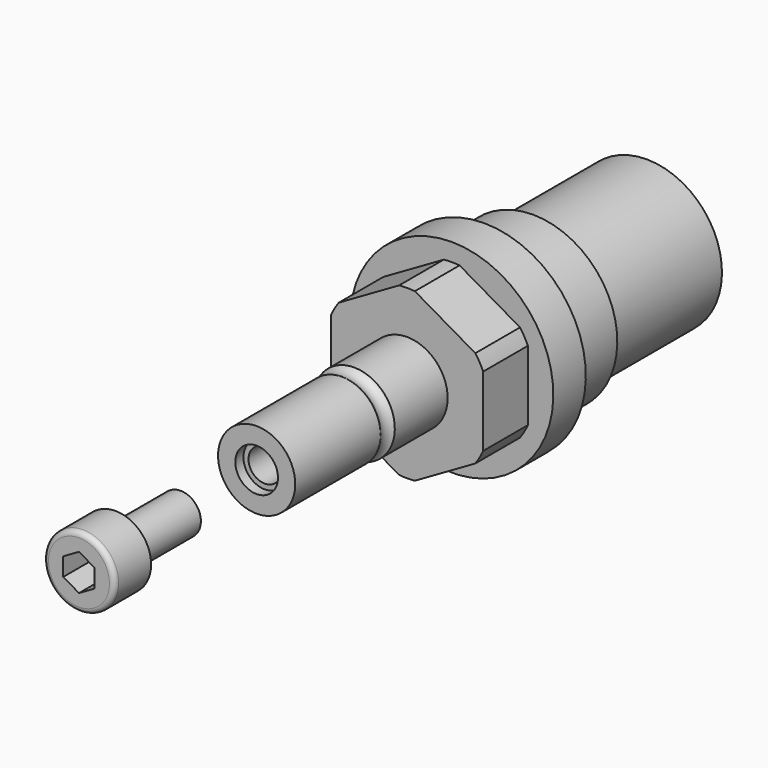
from build123d import *

# Parameters (mm, degrees)
F2_R     = 10
F3_DEPTH = 5.5
F7_DEPTH = 3.2


with BuildPart() as f1:
    # F0 (on Right) → F1 (revolve)
    with BuildSketch(Plane.YZ):
        with BuildLine():
            Line((-20, 0), (20, 0))
            Line((20, 0), (20, 7.4))
            Line((20, 7.4), (6, 7.4))
            Line((6, 7.4), (6, 8.3))
            Line((6, 8.3), (0, 8.3))
            Line((0, 8.3), (0, 10))
            Line((0, 10), (-4, 10))
            Line((-4, 10), (-4, 8.25))
            Line((-4, 8.25), (-9.5, 8.25))
            Line((-9.5, 8.25), (-9.5, 4))
            Line((-9.5, 4), (-16, 4))
            ThreePointArc((-16, 4), (-16.70425, 3.556871), (-17.5, 3.8))
            Line((-17.5, 3.8), (-28, 3.8))
            Line((-28, 3.8), (-28, 2.1))
            Line((-28, 2.1), (-27, 2.1))
            Line((-27, 2.1), (-27, 1.6))
            Line((-27, 1.6), (-20, 1.6))
            Line((-20, 1.6), (-20, 0))
        make_face()
    revolve(axis=Axis((0, 1.715032, 0), (0, 1, 0)))

    # F2 (on face) → F3 (cut, through all)
    with BuildSketch(Plane.XZ.offset(9.5)):
        Circle(F2_R)
        Polygon((0, 8.660254), (7.5, 4.330127), (7.5, -4.330127), (0, -8.660254), (-7.5, -4.330127), (-7.5, 4.330127), align=None, mode=Mode.SUBTRACT)
    extrude(amount=-F3_DEPTH, mode=Mode.SUBTRACT)


with BuildPart() as f5:
    # F4 (on Right) → F5 (revolve)
    with BuildSketch(Plane.YZ):
        with BuildLine():
            Line((-49.859043, 0), (-37.359043, 0))
            Line((-37.359043, 0), (-37.359043, 2))
            Line((-37.359043, 2), (-45.359043, 2))
            Line((-45.359043, 2), (-45.359043, 3.5))
            Line((-45.359043, 3.5), (-49.359043, 3.5))
            ThreePointArc((-49.359043, 3.5), (-49.712596, 3.353553), (-49.859043, 3))
            Line((-49.859043, 3), (-49.859043, 0))
        make_face()
    revolve(axis=Axis((0, -45.271234, 0), (0, -1, 0)))

    # F6 (on face) → F7 (cut)
    with BuildSketch(Plane.XZ.offset(49.859043)):
        Polygon((1.55, -0.894893), (1.55, 0.894893), (0, 1.789786), (-1.55, 0.894893), (-1.55, -0.894893), (0, -1.789786), align=None)
    extrude(amount=-F7_DEPTH, mode=Mode.SUBTRACT)


solid = Compound([f1.part, f5.part])
